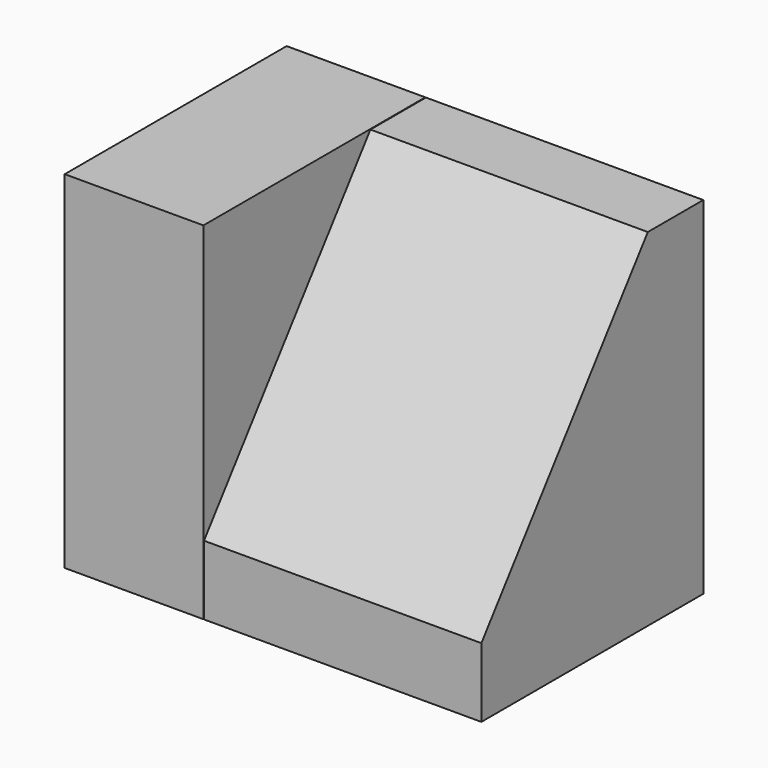
from build123d import *

# Parameters (mm, degrees)
F1_DEPTH = 25.4
F2_W     = 12.7
F2_H     = 31.75
F3_DEPTH = 25.4


with BuildPart() as f1:
    # F0 (on Right) → F1 (new body)
    with BuildSketch(Plane.YZ):
        Polygon((0, 6.35), (0, 0), (25.4, 0), (25.4, 31.75), (19.05, 31.75), align=None)
    extrude(amount=-F1_DEPTH)


with BuildPart() as f3:
    # F2 (on Front) → F3 (new body)
    with BuildSketch(Plane.XZ):
        with Locations((-31.805623, 15.875)):
            Rectangle(F2_W, F2_H)
    extrude(amount=-F3_DEPTH)


solid = Compound([f1.part, f3.part])
